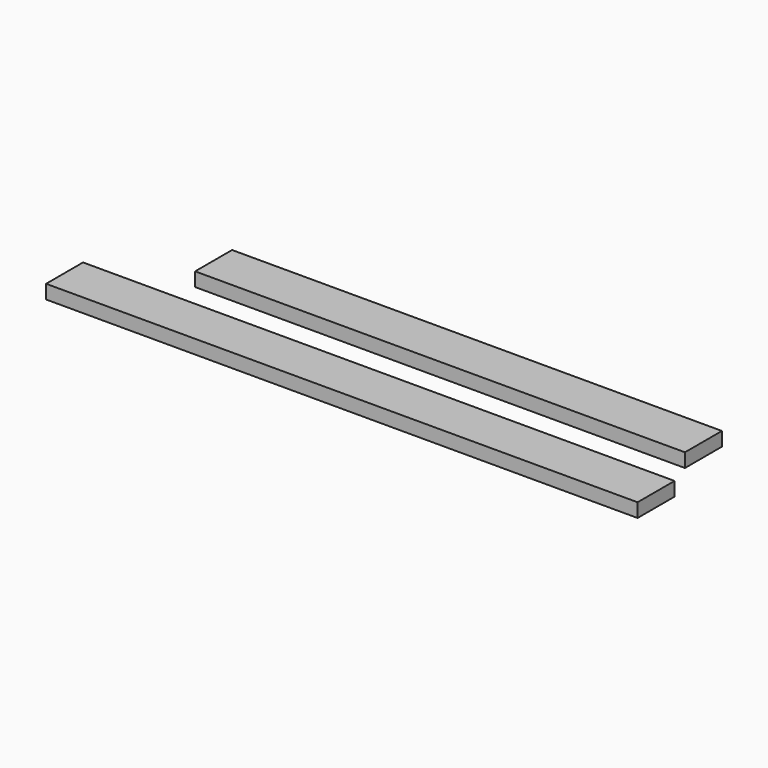
from build123d import *

# Parameters (mm, degrees)
F0_W     = 673.1
F0_H     = 63.5
F0_W_2   = 812.8
F1_DEPTH = 19.05


with BuildPart() as f1:
    # F0 (on Top) → F1 (new body)
    with BuildSketch(Plane.XY):
        with Locations((21.146145, 28.899991)):
            Rectangle(F0_W, F0_H)
        with Locations((-15.836532, -93.547919)):
            Rectangle(F0_W_2, F0_H)
    extrude(amount=F1_DEPTH)


solid = f1.part
